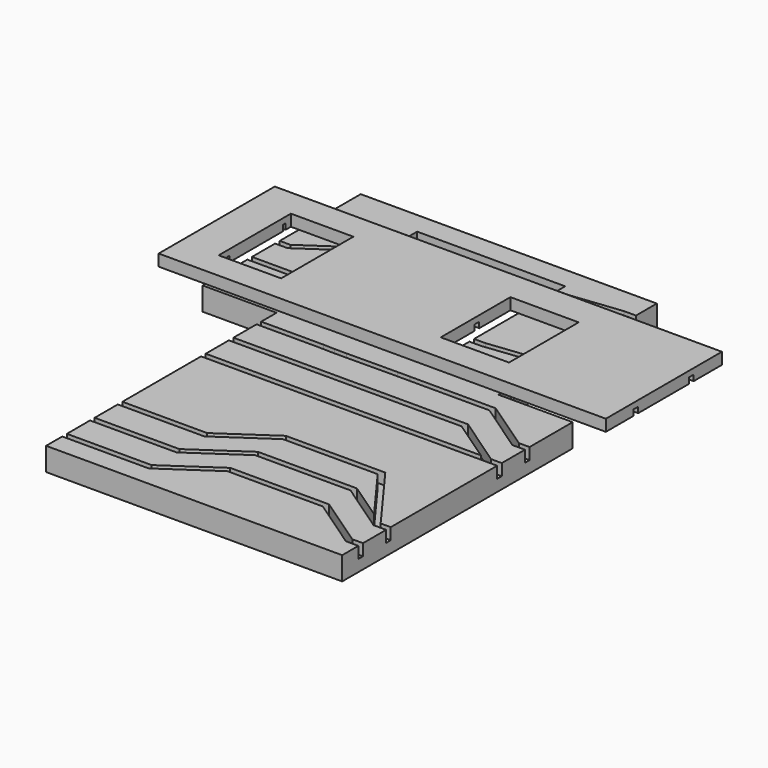
from build123d import *

# Parameters (mm, degrees)
F0_W      = 203.2
F0_H      = 266.7
F1_DEPTH  = 12.7
F3_DEPTH  = 25.4
F4_W      = 3.175
F4_H      = 6.35
F4_H_2    = 12.7
F15_W     = 3.175
F15_H     = 6.35
F21_W     = 245.5100640655
F21_H     = 79.6386539005
F22_DEPTH = 6.35
F24_DEPTH = 6.35
F25_W     = 3.175
F25_H     = 3.175
F28_W     = 3.175
F28_H     = 3.175
F31_W     = 3.175
F31_H     = 3.175


with BuildPart() as f1:
    # F0 (on Top) → F1 (new body)
    with BuildSketch(Plane.XY):
        Rectangle(F0_W, F0_H)
    extrude(amount=F1_DEPTH)

    # F2 (on face) → F3 (cut)
    with BuildSketch(Plane.XY.offset(12.7)):
        Polygon((-60.96, 121.302716434), (-60.96, 114.3), (-60.96, 95.25), (-60.96, 57.15), (-60.96, 38.1), (-60.96, 30.336484313), (-20.32, 30.336484313), (-20.32, 121.302716434), align=None)
        Polygon((-60.96, 24.8144567013), (-101.6, 24.8144567013), (-101.6, -133.35), (-60.96, -133.35), (-60.96, -120.663867332), (-60.96, -101.613867332), (-60.96, -82.563867332), (-60.96, -25.413867332), (-60.96, -6.363867332), (-60.96, 12.686132668), align=None)
        Polygon((101.6, 133.35), (60.96, 133.35), (60.96, 117.475), (67.31, 117.475), (95.2500030398, 117.475), (101.6, 117.475), align=None)
        Polygon((67.31, 117.475), (60.96, 117.475), (60.96, 92.075), (67.31, 92.075), (95.2500030398, 92.075), (101.6, 92.075), (101.6, 117.475), (95.2500030398, 117.475), align=None)
        Polygon((67.31, 92.075), (60.96, 92.075), (60.96, 60.325), (67.31, 60.325), (95.2500030398, 60.325), (101.6, 60.325), (101.6, 92.075), (95.2500030398, 92.075), align=None)
        Polygon((67.31, 60.325), (60.96, 60.325), (60.96, 34.925), (67.31, 34.925), (95.2500030398, 34.925), (101.6, 34.925), (101.6, 60.325), (95.2500030398, 60.325), align=None)
        Polygon((67.31, 34.925), (60.96, 34.925), (60.96, 24.8144567013), (101.6, 24.8144567013), (101.6, 34.925), (95.2500030398, 34.925), align=None)
        Polygon((20.32, 95.25), (20.32, 114.3), (20.32, 121.302716434), (-20.32, 121.302716434), (-20.32, 30.336484313), (20.32, 30.336484313), (20.32, 38.1), (20.32, 57.15), align=None)
    extrude(amount=-F3_DEPTH, mode=Mode.SUBTRACT)

    # F5: sweep along a path in F2
    with BuildLine(Plane.XY.offset(12.7)) as f5_path:
        Line((101.6, -120.663867332), (95.2500030398, -120.663867332))
        Line((95.2500030398, -120.663867332), (67.31, -101.613867332))
        Line((67.31, -101.613867332), (60.96, -101.613867332))
        Line((60.96, -101.613867332), (54.61, -101.613867332))
        Line((54.61, -101.613867332), (26.67, -101.613867332))
        Line((26.67, -101.613867332), (20.32, -101.613867332))
        Line((20.32, -101.613867332), (13.97, -101.613867332))
        Line((13.97, -101.613867332), (-13.97, -120.663867332))
        Line((-13.97, -120.663867332), (-20.32, -120.663867332))
        Line((-20.32, -120.663867332), (-26.67, -120.663867332))
        Line((-26.67, -120.663867332), (-54.61, -120.663867332))
        Line((-54.61, -120.663867332), (-60.96, -120.663867332))
    # F4 (on face) → F5 (sweep, cut)
    with BuildSketch(Plane.YZ.offset(101.6)):
        with Locations((-120.663867332, 9.525)):
            Rectangle(F4_W, F4_H)
    sweep(path=f5_path.line, transition=Transition.RIGHT, mode=Mode.SUBTRACT)

    # F6: sweep along a path in F2
    with BuildLine(Plane.XY.offset(12.7)) as f6_path:
        Line((101.6, -101.613867332), (95.2500030398, -101.613867332))
        Line((95.2500030398, -101.613867332), (67.31, -82.563867332))
        Line((67.31, -82.563867332), (60.96, -82.563867332))
        Line((60.96, -82.563867332), (54.61, -82.563867332))
        Line((54.61, -82.563867332), (26.67, -82.563867332))
        Line((26.67, -82.563867332), (20.32, -82.563867332))
        Line((20.32, -82.563867332), (13.97, -82.563867332))
        Line((13.97, -82.563867332), (-13.97, -101.613867332))
        Line((-13.97, -101.613867332), (-20.32, -101.613867332))
        Line((-20.32, -101.613867332), (-26.67, -101.613867332))
        Line((-26.67, -101.613867332), (-54.61, -101.613867332))
        Line((-54.61, -101.613867332), (-60.96, -101.613867332))
    # F4 (on face) → F6 (sweep, cut)
    with BuildSketch(Plane.YZ.offset(101.6)):
        with Locations((-101.613867332, 9.525)):
            Rectangle(F4_W, F4_H)
    sweep(path=f6_path.line, transition=Transition.RIGHT, mode=Mode.SUBTRACT)

    # F7: sweep along a path in F2
    with BuildLine(Plane.XY.offset(12.7)) as f7_path:
        Line((101.6, -101.613867332), (95.2500030398, -101.613867332))
        Line((95.2500030398, -101.613867332), (67.31, -63.513867332))
        Line((67.31, -63.513867332), (60.96, -63.513867332))
        Line((60.96, -63.513867332), (54.61, -63.513867332))
        Line((54.61, -63.513867332), (26.67, -63.513867332))
        Line((26.67, -63.513867332), (20.32, -63.513867332))
        Line((20.32, -63.513867332), (13.97, -63.513867332))
        Line((13.97, -63.513867332), (-13.97, -82.563867332))
        Line((-13.97, -82.563867332), (-20.32, -82.563867332))
        Line((-20.32, -82.563867332), (-26.67, -82.563867332))
        Line((-26.67, -82.563867332), (-54.61, -82.563867332))
        Line((-54.61, -82.563867332), (-60.96, -82.563867332))
    # F4 (on face) → F7 (sweep, cut)
    with BuildSketch(Plane.YZ.offset(101.6)):
        with Locations((-101.613867332, 9.525)):
            Rectangle(F4_W, F4_H)
    sweep(path=f7_path.line, transition=Transition.RIGHT, mode=Mode.SUBTRACT)

    # F8: sweep along a path in F2
    with BuildLine(Plane.XY.offset(12.7)) as f8_path:
        Line((101.6, -25.413867332), (95.2500030398, -25.413867332))
        Line((95.2500030398, -25.413867332), (67.31, -25.413867332))
        Line((67.31, -25.413867332), (60.96, -25.413867332))
        Line((60.96, -25.413867332), (54.61, -25.413867332))
        Line((54.61, -25.413867332), (26.67, -25.413867332))
        Line((26.67, -25.413867332), (20.32, -25.413867332))
        Line((20.32, -25.413867332), (13.97, -25.413867332))
        Line((13.97, -25.413867332), (-13.97, -25.413867332))
        Line((-13.97, -25.413867332), (-20.32, -25.413867332))
        Line((-20.32, -25.413867332), (-26.67, -25.413867332))
        Line((-26.67, -25.413867332), (-54.61, -25.413867332))
        Line((-54.61, -25.413867332), (-60.96, -25.413867332))
    # F4 (on face) → F8 (sweep, cut)
    with BuildSketch(Plane.YZ.offset(101.6)):
        with Locations((-25.413867332, 9.525)):
            Rectangle(F4_W, F4_H)
    sweep(path=f8_path.line, mode=Mode.SUBTRACT)

    # F9: sweep along a path in F2
    with BuildLine(Plane.XY.offset(12.7)) as f9_path:
        Line((101.6, -6.363867332), (95.2500030398, -6.363867332))
        Line((95.2500030398, -6.363867332), (67.31, 12.6824462786))
        Line((67.31, 12.6824462786), (60.96, 12.6824462786))
        Line((60.96, 12.6824462786), (54.61, 12.6824462786))
        Line((54.61, 12.6824462786), (26.67, 12.6824462786))
        Line((26.67, 12.6824462786), (20.6882841885, 12.6824462786))
        Line((20.6882841885, 12.6824462786), (13.97, 12.686132668))
        Line((13.97, 12.686132668), (-13.97, 12.4989971519))
        Line((-13.97, 12.4989971519), (-20.4738005996, 12.4989971519))
        Line((-20.4738005996, 12.4989971519), (-26.67, 12.686132668))
        Line((-26.67, 12.686132668), (-54.61, 12.686132668))
        Line((-54.61, 12.686132668), (-60.96, 12.686132668))
    # F4 (on face) → F9 (sweep, cut)
    with BuildSketch(Plane.YZ.offset(101.6)):
        with Locations((-6.363867332, 9.525)):
            Rectangle(F4_W, F4_H)
    sweep(path=f9_path.line, transition=Transition.RIGHT, mode=Mode.SUBTRACT)

    # F10: sweep along a path in F2
    with BuildLine(Plane.XY.offset(12.7)) as f10_path:
        Line((101.6, -25.413867332), (95.2500030398, -25.413867332))
        Line((95.2500030398, -25.413867332), (67.31, -6.363867332))
        Line((67.31, -6.363867332), (60.96, -6.363867332))
        Line((60.96, -6.363867332), (54.61, -6.363867332))
        Line((54.61, -6.363867332), (26.67, -6.363867332))
        Line((26.67, -6.363867332), (20.32, -6.363867332))
        Line((20.32, -6.363867332), (13.97, -6.363867332))
        Line((13.97, -6.363867332), (-13.97, -6.363867332))
        Line((-13.97, -6.363867332), (-20.32, -6.363867332))
        Line((-20.32, -6.363867332), (-26.67, -6.363867332))
        Line((-26.67, -6.363867332), (-54.61, -6.363867332))
        Line((-54.61, -6.363867332), (-60.96, -6.363867332))
    # F4 (on face) → F10 (sweep, cut)
    with BuildSketch(Plane.YZ.offset(101.6)):
        with Locations((-25.413867332, 9.525)):
            Rectangle(F4_W, F4_H)
    sweep(path=f10_path.line, transition=Transition.RIGHT, mode=Mode.SUBTRACT)

    # F11: sweep along a path in F2
    with BuildLine(Plane.XY.offset(12.7)) as f11_path:
        Line((101.6, 34.925), (95.2500030398, 34.925))
        Line((95.2500030398, 34.925), (67.31, 34.925))
        Line((67.31, 34.925), (60.96, 34.925))
        Line((60.96, 34.925), (54.61, 34.925))
        Line((54.61, 34.925), (26.67, 38.1))
        Line((26.67, 38.1), (20.32, 38.1))
    # F4 (on face) → F11 (sweep, cut)
    with BuildSketch(Plane.YZ.offset(101.6)):
        with Locations((34.925, 12.7)):
            Rectangle(F4_W, F4_H_2)
    sweep(path=f11_path.line, transition=Transition.RIGHT, mode=Mode.SUBTRACT)

    # F12: sweep along a path in F2
    with BuildLine(Plane.XY.offset(12.7)) as f12_path:
        Line((101.6, 60.325), (95.2500030398, 60.325))
        Line((95.2500030398, 60.325), (67.31, 60.325))
        Line((67.31, 60.325), (60.96, 60.325))
        Line((60.96, 60.325), (54.61, 60.325))
        Line((54.61, 60.325), (26.67, 57.15))
        Line((26.67, 57.15), (20.32, 57.15))
    # F4 (on face) → F12 (sweep, cut)
    with BuildSketch(Plane.YZ.offset(101.6)):
        with Locations((60.325, 12.7)):
            Rectangle(F4_W, F4_H_2)
    sweep(path=f12_path.line, transition=Transition.RIGHT, mode=Mode.SUBTRACT)

    # F13: sweep along a path in F2
    with BuildLine(Plane.XY.offset(12.7)) as f13_path:
        Line((101.6, 92.075), (95.2500030398, 92.075))
        Line((95.2500030398, 92.075), (67.31, 92.075))
        Line((67.31, 92.075), (60.96, 92.075))
        Line((60.96, 92.075), (54.61, 92.075))
        Line((54.61, 92.075), (26.67, 95.25))
        Line((26.67, 95.25), (20.32, 95.25))
    # F4 (on face) → F13 (sweep, cut)
    with BuildSketch(Plane.YZ.offset(101.6)):
        with Locations((92.075, 12.7)):
            Rectangle(F4_W, F4_H_2)
    sweep(path=f13_path.line, transition=Transition.RIGHT, mode=Mode.SUBTRACT)

    # F14: sweep along a path in F2
    with BuildLine(Plane.XY.offset(12.7)) as f14_path:
        Line((101.6, 117.475), (95.2500030398, 117.475))
        Line((95.2500030398, 117.475), (67.31, 117.475))
        Line((67.31, 117.475), (60.96, 117.475))
        Line((60.96, 117.475), (54.61, 117.475))
        Line((54.61, 117.475), (26.67, 114.3))
        Line((26.67, 114.3), (20.32, 114.3))
    # F4 (on face) → F14 (sweep, cut)
    with BuildSketch(Plane.YZ.offset(101.6)):
        with Locations((117.475, 12.7)):
            Rectangle(F4_W, F4_H_2)
    sweep(path=f14_path.line, transition=Transition.RIGHT, mode=Mode.SUBTRACT)

    # F16: sweep along a path in F2
    with BuildLine(Plane.XY.offset(12.7)) as f16_path:
        Line((-101.6, 95.25), (-95.25, 95.25))
        Line((-95.25, 95.25), (-67.31, 114.3))
        Line((-67.31, 114.3), (-60.96, 114.3))
    # F15 (on face) → F16 (sweep, cut)
    with BuildSketch(Plane(origin=(-101.6, 0, 0), x_dir=(0, -1, 0), z_dir=(-1, 0, 0))):
        with Locations((-95.25, 9.525)):
            Rectangle(F15_W, F15_H)
    sweep(path=f16_path.line, transition=Transition.RIGHT, mode=Mode.SUBTRACT)

    # F17: sweep along a path in F2
    with BuildLine(Plane.XY.offset(12.7)) as f17_path:
        Line((-101.6, 76.2), (-95.25, 76.2))
        Line((-95.25, 76.2), (-67.31, 95.25))
        Line((-67.31, 95.25), (-60.96, 95.25))
    # F15 (on face) → F17 (sweep, cut)
    with BuildSketch(Plane(origin=(-101.6, 0, 0), x_dir=(0, -1, 0), z_dir=(-1, 0, 0))):
        with Locations((-76.2, 9.525)):
            Rectangle(F15_W, F15_H)
    sweep(path=f17_path.line, transition=Transition.RIGHT, mode=Mode.SUBTRACT)

    # F18: sweep along a path in F2
    with BuildLine(Plane.XY.offset(12.7)) as f18_path:
        Line((-101.6, 57.15), (-95.25, 57.15))
        Line((-95.25, 57.15), (-67.31, 57.15))
        Line((-67.31, 57.15), (-60.96, 57.15))
    # F15 (on face) → F18 (sweep, cut)
    with BuildSketch(Plane(origin=(-101.6, 0, 0), x_dir=(0, -1, 0), z_dir=(-1, 0, 0))):
        with Locations((-57.15, 9.525)):
            Rectangle(F15_W, F15_H)
    sweep(path=f18_path.line, mode=Mode.SUBTRACT)

    # F19: sweep along a path in F2
    with BuildLine(Plane.XY.offset(12.7)) as f19_path:
        Line((-101.6, 38.1), (-95.25, 38.1))
        Line((-95.25, 38.1), (-67.31, 38.1))
        Line((-67.31, 38.1), (-60.96, 38.1))
    # F15 (on face) → F19 (sweep, cut)
    with BuildSketch(Plane(origin=(-101.6, 0, 0), x_dir=(0, -1, 0), z_dir=(-1, 0, 0))):
        with Locations((-38.1, 9.525)):
            Rectangle(F15_W, F15_H)
    sweep(path=f19_path.line, mode=Mode.SUBTRACT)


with BuildPart() as f22:
    # F21 (on offset) → F22 (new body)
    with BuildSketch(Plane.XY.offset(25.4)):
        with Locations((3.210503608, 56.9643408526)):
            Rectangle(F21_W, F21_H)
    extrude(amount=-F22_DEPTH)

    # F23 (on face) → F24 (cut, through all)
    with BuildSketch(Plane.XY.offset(25.4)):
        Polygon((-64.135, 37.6984050989), (-64.135, 75.7984050989), (-64.135, 81.4800709486), (-98.425, 81.4800709486), (-98.425, 76.2), (-98.425, 57.15), (-98.425, 37.6984050989), (-98.425, 31.9220535457), (-64.135, 31.9220535457), align=None)
        Polygon((23.495, 79.7244235873), (23.495, 56.7484050989), (23.495, 31.9220535457), (60.96, 31.9220535457), (60.96, 53.5734050989), (60.96, 59.9234050989), (60.96, 79.7244235873), align=None)
    extrude(amount=-F24_DEPTH, mode=Mode.SUBTRACT)

    # F26: sweep along a path in F23
    with BuildLine(Plane.XY.offset(25.4)) as f26_path:
        Line((-119.5445284247, 75.7984050989), (-101.6, 76.2))
        Line((-101.6, 76.2), (-98.425, 76.2))
    # F25 (on face) → F26 (sweep, cut)
    with BuildSketch(Plane(origin=(-119.5445284247, 0, 0), x_dir=(0, -1, 0), z_dir=(-1, 0, 0))):
        with Locations((-75.8147984743, 20.6375)):
            Rectangle(F25_W, F25_H)
    sweep(path=f26_path.line, transition=Transition.RIGHT, mode=Mode.SUBTRACT)

    # F27: sweep along a path in F23
    with BuildLine(Plane.XY.offset(25.4)) as f27_path:
        Line((-119.5445284247, 37.6984050989), (-101.6, 38.1))
        Line((-101.6, 38.1), (-98.425, 37.6984050989))
    # F25 (on face) → F27 (sweep, cut)
    with BuildSketch(Plane(origin=(-119.5445284247, 0, 0), x_dir=(0, -1, 0), z_dir=(-1, 0, 0))):
        with Locations((-37.6984050989, 20.6375)):
            Rectangle(F25_W, F25_H)
    sweep(path=f27_path.line, transition=Transition.RIGHT, mode=Mode.SUBTRACT)

    # F29: sweep along a path in F23
    with BuildLine(Plane.XY.offset(25.4)) as f29_path:
        Line((-64.135, 75.7984050989), (-60.96, 75.7984050989))
        Line((-60.96, 75.7984050989), (-54.61, 75.7984050989))
        Line((-54.61, 75.7984050989), (-37.0593369007, 56.7484050989))
        Line((-37.0593369007, 56.7484050989), (23.495, 56.7484050989))
    # F28 (on face) → F29 (sweep, cut)
    with BuildSketch(Plane(origin=(-64.135, 0, 0), x_dir=(0, -1, 0), z_dir=(-1, 0, 0))):
        with Locations((-75.7984050989, 20.6375)):
            Rectangle(F28_W, F28_H)
    sweep(path=f29_path.line, transition=Transition.RIGHT, mode=Mode.SUBTRACT)

    # F30: sweep along a path in F23
    with BuildLine(Plane.XY.offset(25.4)) as f30_path:
        Line((-64.135, 37.6984050989), (-60.96, 37.6984050989))
        Line((-60.96, 37.6984050989), (-54.61, 37.6984050989))
        Line((-54.61, 37.6984050989), (-37.0593369007, 56.7484050989))
    # F28 (on face) → F30 (sweep, cut)
    with BuildSketch(Plane(origin=(-64.135, 0, 0), x_dir=(0, -1, 0), z_dir=(-1, 0, 0))):
        with Locations((-37.6984050989, 20.6375)):
            Rectangle(F28_W, F28_H)
    sweep(path=f30_path.line, transition=Transition.RIGHT, mode=Mode.SUBTRACT)

    # F32: sweep along a path in F23
    with BuildLine(Plane.XY.offset(25.4)) as f32_path:
        Line((125.9655356407, 37.6984050989), (110.1024672389, 37.6984050989))
        Line((110.1024672389, 37.6984050989), (64.135, 53.5734050989))
        Line((64.135, 53.5734050989), (57.785, 53.5734050989))
    # F31 (on face) → F32 (sweep, cut)
    with BuildSketch(Plane.YZ.offset(125.9655356407)):
        with Locations((37.6984050989, 20.6375)):
            Rectangle(F31_W, F31_H)
    sweep(path=f32_path.line, transition=Transition.RIGHT, mode=Mode.SUBTRACT)

    # F33: sweep along a path in F23
    with BuildLine(Plane.XY.offset(25.4)) as f33_path:
        Line((125.9655356407, 75.7984050989), (110.1024672389, 75.7984050989))
        Line((110.1024672389, 75.7984050989), (64.135, 59.9234050989))
        Line((64.135, 59.9234050989), (57.785, 59.9234050989))
    # F31 (on face) → F33 (sweep, cut)
    with BuildSketch(Plane.YZ.offset(125.9655356407)):
        with Locations((75.7984050989, 20.6375)):
            Rectangle(F31_W, F31_H)
    sweep(path=f33_path.line, transition=Transition.RIGHT, mode=Mode.SUBTRACT)


solid = Compound([f1.part, f22.part])
